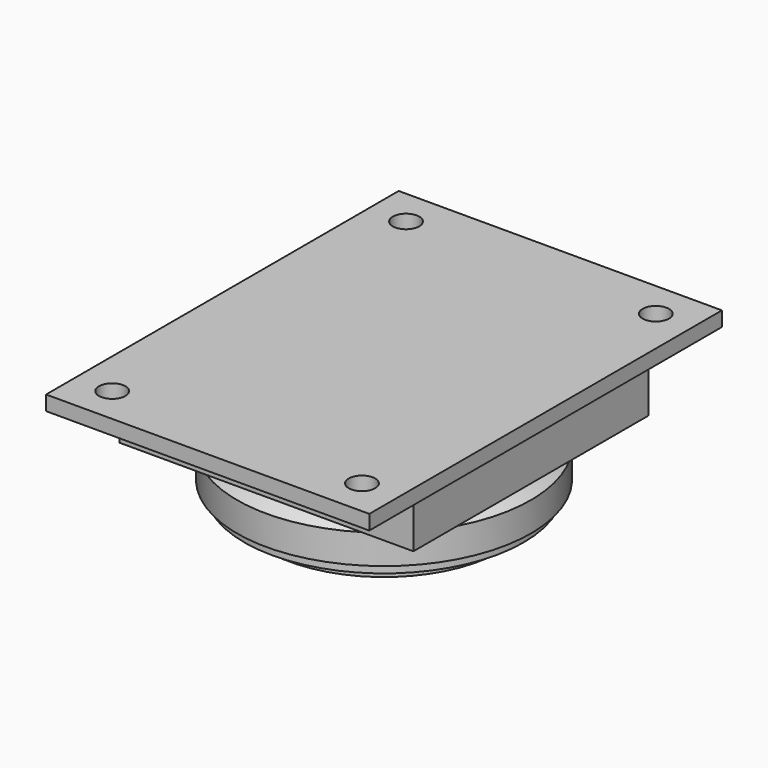
from build123d import *

# Parameters (mm, degrees)
F0_W     = 220
F0_H     = 300
F0_R     = 9
F1_DEPTH = 10
F2_W     = 200
F2_H     = 200
F3_DEPTH = 36


with BuildPart() as f1:
    # F0 (on Top) → F1 (new body)
    with BuildSketch(Plane.XY):
        Rectangle(F0_W, F0_H)
        with Locations((-85, -125)):
            Circle(F0_R, mode=Mode.SUBTRACT)
        with Locations((85, -125)):
            Circle(F0_R, mode=Mode.SUBTRACT)
        with Locations((-85, 125)):
            Circle(F0_R, mode=Mode.SUBTRACT)
        with Locations((85, 125)):
            Circle(F0_R, mode=Mode.SUBTRACT)
    extrude(amount=F1_DEPTH)

    # F2 (on face) → F3 (join)
    with BuildSketch(Plane(origin=(0, 0, 0), x_dir=(1, 0, 0), z_dir=(0, 0, -1))):
        Rectangle(F2_W, F2_H)
    extrude(amount=F3_DEPTH)

    # F4 (on Right) → F5 (revolve)
    with BuildSketch(Plane.YZ):
        with BuildLine():
            Line((100, -66), (100, -46))
            ThreePointArc((100, -46), (90.250635, -40.725886), (80.224051, -36))
            Line((80.224051, -36), (0, -36))
            Line((0, -36), (0, -83))
            Line((0, -83), (80, -83))
            Line((80, -83), (80, -73))
            Line((80, -73), (95, -73))
            Line((95, -73), (95, -66))
            Line((95, -66), (100, -66))
        make_face()
    revolve(axis=Axis((0, 0, -41.5), (0, 0, -1)))


solid = f1.part
